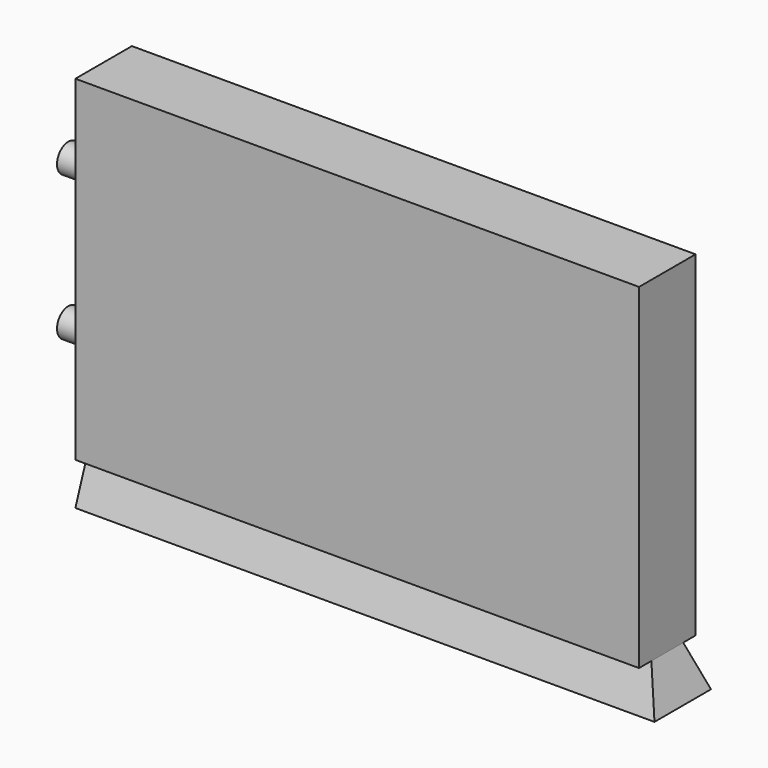
from build123d import *

# Parameters (mm, degrees)
F0_W      = 101.6
F0_H      = 60.33
F1_DEPTH  = 12.7
F3_DEPTH  = 101.6
F4_W      = 13.7607939541
F4_H      = 10.2049419656
F5_DEPTH  = 3.175
F6_DEPTH  = 3.175
F7_W      = 0.254
F7_H      = 12.7
F8_DEPTH  = 101.6
F10_DEPTH = 25.4
F11_W     = 0.7027839153
F11_H     = 7.62
F14_W     = 24.6972160847
F14_H     = 5.7475257993
F15_DEPTH = 7.62
F17_DEPTH = 6.35


with BuildPart() as f1:
    # F0 (on Front) → F1 (new body)
    with BuildSketch(Plane.XZ):
        with Locations((50.8, 30.165)):
            Rectangle(F0_W, F0_H)
    extrude(amount=F1_DEPTH)

    # F2 (on face) → F3 (join)
    with BuildSketch(Plane.YZ.offset(101.6)):
        Polygon((0, -7.62), (-2.7734531851, 0), (-9.9265468149, 0), (-12.7, -7.62), align=None)
    extrude(amount=-F3_DEPTH)

    # F4 (on face) → F5 (cut)
    with BuildSketch(Plane(origin=(0, 0, 0), x_dir=(0, -1, 0), z_dir=(-1, 0, 0))):
        with Locations((6.8803969771, -5.1024709828)):
            Rectangle(F4_W, F4_H)
    extrude(amount=-F5_DEPTH, mode=Mode.SUBTRACT)

    # F6 (add): a face of the model
    f6_faces = [f1.faces().sort_by_distance(p)[0] for p in [
        (3.175, -6.35, -4.1648349301),
    ]]
    extrude(f6_faces, amount=F6_DEPTH)

    # F7 (on face) → F8 (cut)
    with BuildSketch(Plane.XY.offset(60.33)):
        with Locations((101.473, -6.35)):
            Rectangle(F7_W, F7_H)
    extrude(amount=-F8_DEPTH, mode=Mode.SUBTRACT)

    # F9 (on face) → F10 (cut)
    with BuildSketch(Plane.YZ.offset(101.346)):
        Polygon((-9.9265468149, 0), (-12.7, -7.62), (0, -7.62), (-2.7734531851, 0), align=None)
    extrude(amount=-F10_DEPTH, mode=Mode.SUBTRACT)

    # F13: sweep along a path in F12
    with BuildLine(Plane(origin=(0, 0, 0), x_dir=(1, 0, 0), z_dir=(0, 0, -1))) as f13_path:
        Line((75.946, 9.9265468149), (101.346, 9.9265468149))
        Line((101.346, 9.9265468149), (101.346, 2.7734531851))
        Line((101.346, 2.7734531851), (75.946, 2.7734531851))
    # F11 (on face) → F13 (sweep)
    with BuildSketch(Plane.YZ.offset(75.946)):
        Polygon((-9.9265468149, 0), (-12.7, -7.62), (-9.9265468149, -7.62), align=None)
        with Locations((-9.5751548573, -3.81)):
            Rectangle(F11_W, F11_H)
    sweep(path=f13_path.line, transition=Transition.RIGHT)

    # F14 (on face) → F15 (join)
    with BuildSketch(Plane(origin=(0, 0, -7.62), x_dir=(1, 0, 0), z_dir=(0, 0, -1))):
        with Locations((88.2946080424, 6.35)):
            Rectangle(F14_W, F14_H)
    extrude(amount=-F15_DEPTH)

    # F16 (on face) → F17 (join)
    with BuildSketch(Plane(origin=(0, 0, 0), x_dir=(0, -1, 0), z_dir=(-1, 0, 0))):
        with BuildLine():
            ThreePointArc((8.89, 43.18), (6.35, 45.72), (3.81, 43.18))
            Line((3.81, 43.18), (8.89, 43.18))
        make_face()
        with BuildLine():
            Line((8.89, 43.18), (3.81, 43.18))
            ThreePointArc((3.81, 43.18), (6.35, 40.64), (8.89, 43.18))
        make_face()
        with BuildLine():
            Line((8.89, 17.145), (3.81, 17.145))
            ThreePointArc((3.81, 17.145), (6.35, 14.605), (8.89, 17.145))
        make_face()
        with BuildLine():
            ThreePointArc((8.89, 17.145), (6.35, 19.685), (3.81, 17.145))
            Line((3.81, 17.145), (8.89, 17.145))
        make_face()
    extrude(amount=F17_DEPTH)


solid = f1.part
